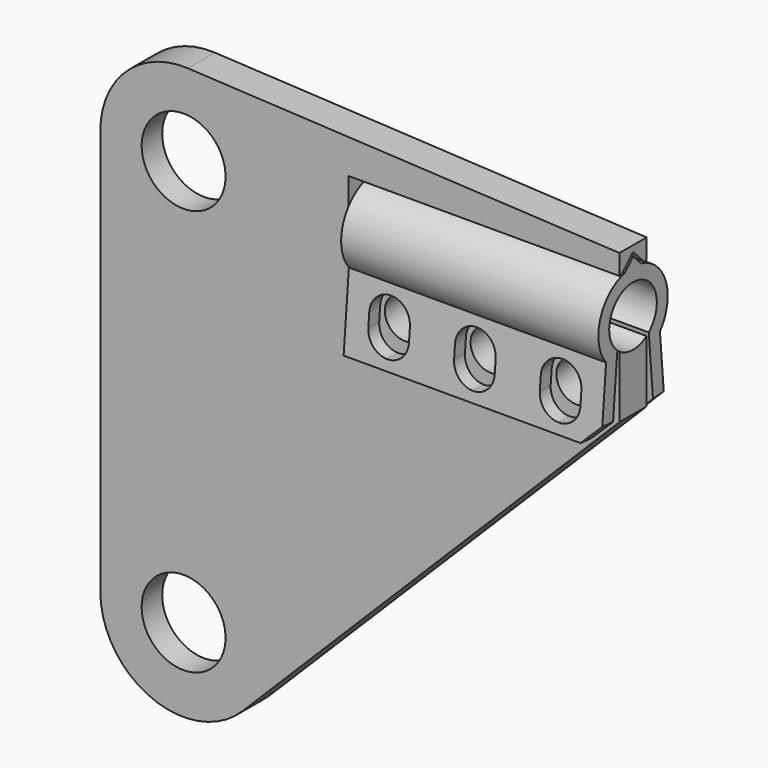
from build123d import *

# Parameters (mm, degrees)
F1_DEPTH        = 2.5
F3_DEPTH        = 20
F6_DEPTH        = 19
F8_DEPTH        = 20
F11_D           = 3
F11_DEPTH       = 5
F11_START       = 5
F11_TIP         = 0.9012909285
F12_DEPTH       = 25
F13_SIZE        = 1.5
F14_D           = 6.2
F14_DEPTH       = 5
F14_CBORE_D     = 7.5
F14_CBORE_DEPTH = 0.6
F14_TIP         = 1.862667919


with BuildPart() as f1:
    # F0 (on Front) → F1 (new body)
    with BuildSketch(Plane.XZ):
        with BuildLine():
            ThreePointArc((-10.0007775515, 19.8732864219), (-14.5524809274, 18.190560255), (-16.4670801936, 13.7314257398))
            Line((-16.4670801936, 13.7314257398), (-16.4670801936, -16.2685742602))
            ThreePointArc((-16.4670801936, -16.2685742602), (-12.6705833026, -21.9504333851), (-5.9683734893, -20.6172809645))
            Line((-5.9683734893, -20.6172809645), (21.880333215, 7.2314257398))
            Line((21.880333215, 7.2314257398), (21.880333215, 10.7314257398))
            Line((21.880333215, 10.7314257398), (1.880333215, 10.7314257398))
            Line((1.880333215, 10.7314257398), (1.880333215, 16.7314257398))
            Line((1.880333215, 16.7314257398), (21.880333215, 16.7314257398))
            Line((21.880333215, 16.7314257398), (21.880333215, 18.2314257398))
            Line((21.880333215, 18.2314257398), (-10.0007775515, 19.8732864219))
        make_face()
    extrude(amount=F1_DEPTH)

    # F2 (on face) → F3 (cut, through all)
    with BuildSketch(Plane.YZ.offset(21.880333215)):
        Polygon((-1.25, 17.7814257398), (-2.3, 16.7314257398), (-0.2, 16.7314257398), align=None)
    extrude(amount=-F3_DEPTH, mode=Mode.SUBTRACT)

    # F7 (on face) → F8 (join, through all)
    with BuildSketch(Plane.YZ.offset(1.880333215)):
        with BuildLine():
            Line((-2.5, 11.8143575804), (-2.5, 10.7314257398))
            Line((-2.5, 10.7314257398), (0, 10.7314257398))
            Line((0, 10.7314257398), (0, 11.8143575804))
            ThreePointArc((0, 11.8143575804), (-1.25, 11.4247442795), (-2.5, 11.8143575804))
        make_face()
    extrude(amount=F8_DEPTH)

    # F11
    # its depths count from where the whole tool has entered the part; down to there all is cleared
    with Locations(Plane.XZ.offset(7.5).offset(-F11_START)):
        with Locations((6.0469998817, 8.8446571536), (12.380333215, 8.8446571536), (18.7136665483, 8.8446571536)):
            Hole(F11_D / 2, depth=F11_DEPTH)
            with Locations((0, 0, -(F11_DEPTH + F11_TIP / 2))):  # 118° drill point
                Cone(0, F11_D / 2, F11_TIP, mode=Mode.SUBTRACT)

    # F14
    with Locations(Plane(origin=(0, 0, 0), x_dir=(1, 0, 0), z_dir=(0, 1, 0))):
        with Locations((-10.3170801936, -13.7314257398), (-10.3170801936, 16.2685742602)):
            CounterBoreHole(F14_D / 2, F14_CBORE_D / 2, F14_CBORE_DEPTH, depth=F14_DEPTH)
            with Locations((0, 0, -(F14_DEPTH + F14_TIP / 2))):  # 118° drill point
                Cone(0, F14_D / 2, F14_TIP, mode=Mode.SUBTRACT)


with BuildPart() as f6:
    # F5 (on offset) → F6 (new body)
    with BuildSketch(Plane.YZ.offset(21.880333215)):
        with BuildLine():
            ThreePointArc((-2.7, 11.9702050687), (-1.25, 15.8247442795), (0.2, 11.9702050687))
            Line((0.2, 11.9702050687), (0.7229344565, 5.9930368801))
            Line((0.7229344565, 5.9930368801), (1.7191291546, 6.0801926229))
            Line((1.7191291546, 6.0801926229), (1.2354105403, 11.6091216842))
            ThreePointArc((1.2354105403, 11.6091216842), (1.7838587769, 14.642438203), (-0.4828427125, 16.7314257398))
            Line((-0.4828427125, 16.7314257398), (-1.25, 17.4985830274))
            Line((-1.25, 17.4985830274), (-2.0171572875, 16.7314257398))
            ThreePointArc((-2.0171572875, 16.7314257398), (-4.2838587769, 14.642438203), (-3.7354105403, 11.6091216842))
            Line((-3.7354105403, 11.6091216842), (-4.2191291546, 6.0801926229))
            Line((-4.2191291546, 6.0801926229), (-3.2229344565, 5.9930368801))
            Line((-3.2229344565, 5.9930368801), (-2.7, 11.9702050687))
        make_face()
    extrude(amount=-F6_DEPTH)

    # F10 (on offset) → F12 (cut)
    with BuildSketch(Plane.XZ.offset(7.5)):
        with BuildLine():
            ThreePointArc((4.5469998817, 8.3446571536), (4.9863397099, 7.2839969818), (6.0469998817, 6.8446571536))
            ThreePointArc((6.0469998817, 6.8446571536), (7.1076600534, 7.2839969818), (7.5469998817, 8.3446571536))
            Line((7.5469998817, 8.3446571536), (7.5469998817, 9.3446571536))
            ThreePointArc((7.5469998817, 9.3446571536), (7.1076600534, 10.4053173253), (6.0469998817, 10.8446571536))
            ThreePointArc((6.0469998817, 10.8446571536), (4.9863397099, 10.4053173253), (4.5469998817, 9.3446571536))
            Line((4.5469998817, 9.3446571536), (4.5469998817, 8.3446571536))
        make_face()
        with BuildLine():
            ThreePointArc((10.880333215, 8.3446571536), (11.3196730432, 7.2839969818), (12.380333215, 6.8446571536))
            ThreePointArc((12.380333215, 6.8446571536), (13.4409933868, 7.2839969818), (13.880333215, 8.3446571536))
            Line((13.880333215, 8.3446571536), (13.880333215, 9.3446571536))
            ThreePointArc((13.880333215, 9.3446571536), (13.4409933904, 10.4053173217), (12.3803332253, 10.8446571536))
            ThreePointArc((12.3803332253, 10.8446571536), (11.3196730469, 10.405317329), (10.880333215, 9.3446571536))
            Line((10.880333215, 9.3446571536), (10.880333215, 8.3446571536))
        make_face()
        with BuildLine():
            ThreePointArc((17.2136665483, 8.3446571536), (17.6530063743, 7.283996984), (18.7136665419, 6.8446571536))
            ThreePointArc((18.7136665419, 6.8446571536), (19.7743267179, 7.2839969795), (20.2136665483, 8.3446571536))
            Line((20.2136665483, 8.3446571536), (20.2136665483, 9.3446571536))
            ThreePointArc((20.2136665483, 9.3446571536), (19.7743267201, 10.4053173253), (18.7136665483, 10.8446571536))
            ThreePointArc((18.7136665483, 10.8446571536), (17.6530063766, 10.4053173253), (17.2136665483, 9.3446571536))
            Line((17.2136665483, 9.3446571536), (17.2136665483, 8.3446571536))
        make_face()
    extrude(amount=-F12_DEPTH, mode=Mode.SUBTRACT)

    # F13
    f13_edges = [f6.edges().sort_by_distance(p)[0] for p in [
        (21.880333, -3.721032, 6.036615),
        (21.880333, 1.221032, 6.036615),
    ]]
    chamfer(f13_edges, length=F13_SIZE)


solid = Compound([f1.part, f6.part])
